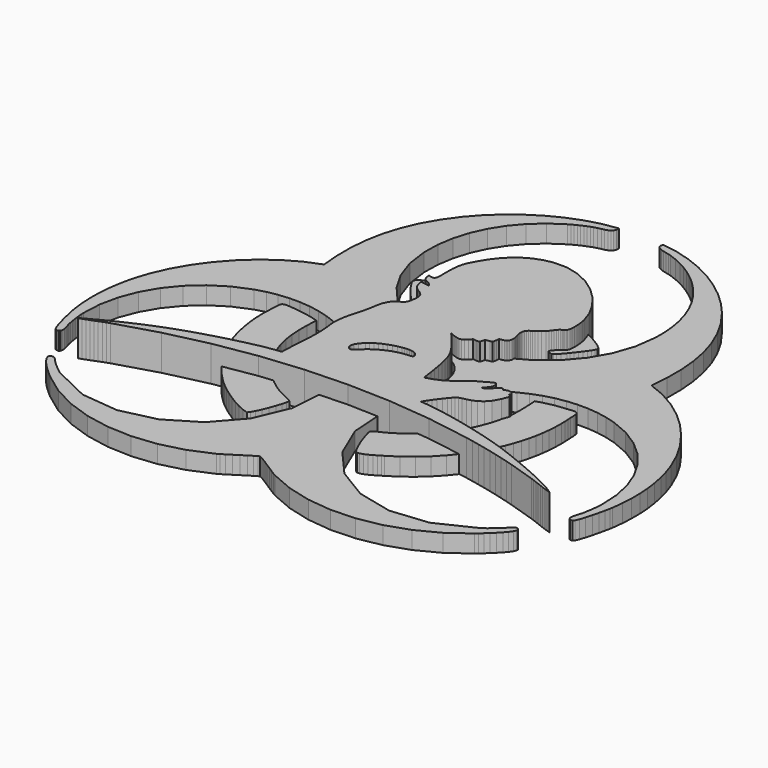
from build123d import *

# Parameters (mm, degrees)
F1_DEPTH = 6
F3_DEPTH = 3


with BuildPart() as f1:
    # F0 (on Top) → F1 (new body)
    with BuildSketch(Plane.XY):
        Polygon((-38.467299, -25.027738), (-39.957612, -25.8376), (-40, -25.916761), (-39.48545, -25.749315), (-38.964584, -25.564464), (-38.438525, -25.367122), (-37.908536, -25.1622), (-37.375459, -24.954472), (-36.840558, -24.749129), (-36.304954, -24.550944), (-35.769632, -24.36469), (-28.762294, -22.263682), (-21.690954, -20.619677), (-14.564454, -19.436185), (-7.392056, -18.716854), (-0.182745, -18.465193), (7.054076, -18.684852), (14.309705, -19.37948), (21.574738, -20.552727), (22.797531, -20.79751), (24.013166, -21.054785), (25.22108, -21.324832), (26.421135, -21.607933), (27.612768, -21.904508), (28.795699, -22.214838), (29.969507, -22.539204), (31.133911, -22.877745), (35.627029, -24.327215), (36.174141, -24.523715), (36.726728, -24.731584), (37.282122, -24.945629), (37.837375, -25.160516), (38.389541, -25.371052), (38.935951, -25.572044), (39.473801, -25.758298), (40, -25.924621), (38.925846, -25.207255), (37.365634, -24.370164), (35.47418, -23.466404), (33.406436, -22.54959), (31.317358, -21.673059), (29.36176, -20.890146), (27.694597, -20.254187), (26.470821, -19.818658), (25.540954, -19.515206), (24.607719, -19.224666), (23.66929, -18.945917), (22.724265, -18.677975), (21.771239, -18.419717), (20.808809, -18.170303), (19.835291, -17.928327), (18.849281, -17.693088), (17.911133, -17.478622), (16.887086, -17.256156), (15.80437, -17.034672), (14.689933, -16.823013), (13.570584, -16.630162), (12.473271, -16.465242), (11.425223, -16.337096), (10.453108, -16.254706), (10.621958, -15.920937), (10.905901, -15.467442), (11.272514, -14.934927), (11.689095, -14.363673), (12.12322, -13.794243), (12.542748, -13.267061), (12.914835, -12.82255), (13.207199, -12.501132), (13.594164, -12.258033), (14.123592, -12.101534), (14.75927, -11.960616), (15.465828, -11.764677), (16.207195, -11.442978), (16.94758, -10.924779), (17.651472, -10.139059), (18.282799, -9.015218), (18.722258, -7.838603), (18.700642, -7.625822), (18.66415, -7.559152), (18.614182, -7.555643), (18.552566, -7.532344), (18.334871, -7.400688), (18.319713, -7.294859), (18.315642, -7.250225), (18.347082, -7.241664), (18.438595, -7.24433), (18.391716, -7.018496), (18.277325, -6.828592), (18.107914, -6.6822), (17.895413, -6.587178), (17.652314, -6.551246), (17.390688, -6.581984), (17.122886, -6.687112), (16.86098, -6.874349), (16.69227, -6.628864), (16.51163, -6.518262), (16.325517, -6.516578), (16.140666, -6.597704), (15.963535, -6.735816), (15.801001, -6.904666), (15.659662, -7.078288), (15.545972, -7.230716), (15.430879, -7.388618), (15.308067, -7.547923), (15.17192, -7.700351), (15.016545, -7.837621), (14.836326, -7.95145), (14.625509, -8.03384), (14.3782, -8.076228), (14.088643, -8.070473), (14.281353, -7.914958), (14.499749, -7.733616), (14.720531, -7.525606), (14.920681, -7.289525), (15.077179, -7.024531), (15.167148, -6.729219), (15.167288, -6.402748), (15.054581, -6.043714), (14.90075, -5.927779), (14.724321, -5.905743), (14.520241, -5.961746), (14.283599, -6.079646), (13.692414, -6.438539), (12.911185, -6.855681), (12.179082, -7.254155), (11.532456, -7.715369), (10.91727, -8.217989), (10.279908, -8.740118), (9.566471, -9.260282), (8.723205, -9.756726), (7.696211, -10.208115), (6.431732, -10.592553), (6.318183, -9.777078), (6.186107, -8.85086), (6.034521, -7.857411), (5.863004, -6.840523), (5.670996, -5.843846), (5.457652, -4.910891), (5.222694, -4.08545), (4.965279, -3.411173), (4.787025, -3.051157), (4.585893, -2.689737), (4.367778, -2.331264), (4.138855, -1.980231), (3.67329, -1.319008), (3.238183, -0.741999), (2.784127, -0.159516), (2.257085, 0.49497), (1.727658, 1.114647), (1.266444, 1.592564), (1.815942, 1.374308), (2.292596, 1.188896), (2.714369, 1.059908), (3.09951, 1.011344), (3.465983, 1.066505), (3.832034, 1.249531), (4.215631, 1.583862), (4.635159, 2.093218), (4.963033, 2.05462), (5.218764, 2.01546), (5.340454, 2.007039), (5.469021, 2.011811), (5.612888, 2.034689), (5.780334, 2.079884), (6.010379, 2.896062), (6.724096, 3.04049), (7.058427, 3.110247), (7.13815, 3.213831), (7.188819, 3.414682), (7.23233, 3.751399), (7.290438, 4.26258), (7.740844, 4.334724), (8.101843, 4.415289), (8.253991, 4.475923), (8.390137, 4.559296), (8.512108, 4.672424), (8.622148, 4.822325), (8.743837, 5.215887), (8.747908, 5.62152), (8.673659, 6.035714), (8.560812, 6.455242), (8.448526, 6.876594), (8.376382, 7.296263), (8.383821, 7.710878), (8.510283, 8.117212), (8.666922, 8.366066), (8.851632, 8.553022), (9.067642, 8.70573), (9.31832, 8.852685), (9.606894, 9.021675), (9.936734, 9.240913), (10.310926, 9.53847), (10.73284, 9.942418), (10.997835, 10.239274), (11.201493, 10.502725), (11.39252, 10.768421), (11.62032, 11.072575), (11.798714, 11.27104), (11.968406, 11.41224), (12.128273, 11.512455), (12.277051, 11.588669), (12.413619, 11.657304), (12.536853, 11.735202), (12.645349, 11.839066), (12.737985, 11.985319), (12.8462, 12.313193), (12.908519, 12.729633), (12.931678, 13.205866), (12.922695, 13.713538), (12.888307, 14.224017), (12.835392, 14.708952), (12.770969, 15.139848), (12.701913, 15.487935), (12.024689, 17.466832), (10.940148, 19.435764), (9.50682, 21.303077), (7.783232, 22.977259), (5.828196, 24.366515), (3.700099, 25.379473), (1.45761, 25.924621), (-0.840459, 25.910164), (-2.390425, 25.572605), (-3.79091, 25.030686), (-5.051458, 24.302512), (-6.182177, 23.406892), (-7.19303, 22.361792), (-8.093703, 21.185879), (-8.89416, 19.897539), (-9.604228, 18.51516), (-9.864169, 17.788671), (-10.022913, 16.991442), (-10.10404, 16.163895), (-10.130708, 15.346314), (-10.126076, 14.578981), (-10.113584, 13.902038), (-10.116532, 13.355907), (-10.158218, 12.981013), (-10.235555, 12.772021), (-10.340682, 12.636155), (-10.470232, 12.561766), (-10.620414, 12.537203), (-10.96836, 12.591241), (-11.355746, 12.705492), (-11.289357, 12.101815), (-11.155456, 11.711762), (-10.964991, 11.473295), (-10.729051, 11.324657), (-10.458302, 11.20395), (-10.163832, 11.049416), (-9.85645, 10.799019), (-9.547243, 10.391), (-11.060996, 10.651082), (-10.865057, 9.733567), (-10.535217, 9.109538), (-10.122427, 8.691414), (-9.678196, 8.39147), (-9.253334, 8.121985), (-8.899213, 7.795373), (-8.666781, 7.324194), (-8.60727, 6.620583), (-8.719836, 5.642292), (-8.922091, 5.037353), (-9.198595, 4.688845), (-9.533347, 4.479853), (-9.910768, 4.293319), (-10.315137, 4.012323), (-10.730735, 3.52009), (-11.141982, 2.699421), (-11.247531, 2.37295), (-11.343395, 1.97195), (-11.432802, 1.517473), (-11.518982, 1.030012), (-11.693446, 0.040072), (-11.891771, -0.831406), (-12.13136, -1.655444), (-12.366178, -2.501097), (-12.57517, -3.368645), (-12.737283, -4.25865), (-12.803391, -4.837765), (-12.827813, -5.358911), (-12.819532, -5.839354), (-12.78725, -6.296498), (-12.685491, -7.209522), (-12.592715, -8.236516), (-12.561134, -9.243018), (-12.572784, -10.271837), (-12.616014, -11.317078), (-12.679175, -12.373126), (-12.750617, -13.434086), (-12.81855, -14.493924), (-12.871464, -15.546885), (-12.897711, -16.587213), (-14.44529, -16.772063), (-16.243408, -17.091657), (-18.206585, -17.515957), (-20.249064, -18.015208), (-22.284806, -18.559233), (-24.228333, -19.118135), (-25.993887, -19.661879), (-27.49557, -20.160709), (-29.211578, -20.78165), (-30.856425, -21.424626), (-32.443164, -22.091183), (-33.984568, -22.783285), (-35.49383, -23.502195), (-36.983722, -24.249878), align=None)
        Polygon((-1.922193, -5.808195), (-1.218301, -5.660258), (-0.837231, -5.603554), (-0.440582, -5.572395), (-0.04309, -5.572535), (0.340787, -5.60973), (0.696312, -5.689453), (1.008888, -5.817458), (1.264058, -5.999502), (1.447084, -6.241057), (1.537614, -6.45861), (1.556562, -6.618477), (1.514174, -6.730061), (1.420837, -6.802766), (1.121876, -6.869155), (0.74235, -6.893297), (0.222607, -6.944527), (-0.287452, -7.022706), (-0.787685, -7.127413), (-1.277953, -7.258226), (-1.758536, -7.414865), (-2.229154, -7.596908), (-2.689667, -7.803795), (-3.140354, -8.035384), (-3.810419, -8.431613), (-4.341391, -8.79991), (-4.756849, -9.137329), (-5.080512, -9.44036), (-5.336103, -9.706057), (-5.5472, -9.931049), (-5.737385, -10.11211), (-5.930516, -10.246152), (-6.216003, -10.325734), (-6.4977, -10.274363), (-6.735044, -10.100601), (-6.887472, -9.81357), (-6.914701, -9.422254), (-6.776169, -8.935355), (-6.431451, -8.361855), (-5.839986, -7.710597), (-5.416107, -7.3503), (-4.940296, -7.018496), (-4.416763, -6.715745), (-3.849158, -6.44275), (-3.241551, -6.200072), (-2.598013, -5.988273), align=None, mode=Mode.SUBTRACT)
    extrude(amount=F1_DEPTH)

    # F2 (on Top) → F3 (join)
    with BuildSketch(Plane.XY):
        Polygon((4.57095, 4.0118), (0.89715, 3.4461), (0.89715, 0.5478), (1.18585, 0.4119), (1.56705, 0.2828), (2.02085, 0.1316), (2.52745, -0.0701), (3.06705, -0.3509), (3.61975, -0.7396), (4.16565, -1.2646), (4.68485, -1.9546), (5.16585, -2.8524), (5.44385, -3.6749), (5.56225, -4.4219), (5.56485, -5.0932), (5.49515, -5.6884), (5.39675, -6.2074), (5.31335, -6.6499), (5.28845, -7.0156), (7.74945, -8.4431), (8.82645, -7.1748), (9.79215, -6.0445), (10.70805, -5.0314), (11.63525, -4.1146), (12.63515, -3.2734), (13.76915, -2.4869), (15.09855, -1.7343), (16.68475, -0.9948), (18.35405, -0.3725), (20.06665, 0.0921), (21.81025, 0.3991), (23.57255, 0.5483), (25.34135, 0.5396), (27.10435, 0.373), (28.84925, 0.0484), (30.56375, -0.4344), (33.54455, -1.7005), (36.21565, -3.3944), (38.54595, -5.4672), (40.50455, -7.8699), (42.06025, -10.5534), (43.18205, -13.4689), (43.83885, -16.5673), (43.99955, -19.7996), (43.97845, -20.2797), (43.94515, -20.7384), (43.90045, -21.1822), (43.84555, -21.6178), (43.78135, -22.0516), (43.70885, -22.4903), (43.62895, -22.9404), (43.54285, -23.4084), (43.34645, -24.055), (43.11795, -24.9383), (43.09105, -25.3494), (43.17535, -25.6764), (43.41075, -25.8716), (43.83685, -25.8873), (44.07565, -25.6224), (44.35065, -24.9773), (44.64275, -24.0682), (44.93245, -23.0113), (45.20055, -21.9231), (45.42775, -20.9196), (45.59485, -20.1173), (45.68255, -19.6324), (45.89175, -17.8116), (45.99135, -16.0041), (45.98005, -14.2097), (45.85605, -12.4278), (45.61805, -10.6581), (45.26445, -8.9001), (44.79365, -7.1534), (44.20425, -5.4176), (43.02875, -2.7556), (41.53905, -0.1743), (39.76705, 2.279), (37.74445, 4.557), (35.50315, 6.6124), (33.07475, 8.3978), (30.49125, 9.866), (27.78435, 10.9696), (28.03365, 14.0063), (28.03915, 16.9676), (27.78445, 19.8525), (27.25335, 22.6603), (26.42975, 25.3898), (25.29735, 28.0404), (23.83995, 30.6109), (22.04135, 33.1006), (20.28235, 35.0837), (18.32355, 36.921), (16.19035, 38.5871), (13.90795, 40.0567), (11.50145, 41.3045), (8.99625, 42.3051), (6.41755, 43.0331), (3.79045, 43.4633), (3.67925, 43.0148), (3.79545, 42.6634), (4.08925, 42.3923), (4.51105, 42.1847), (5.01095, 42.0238), (5.53935, 41.8928), (6.04625, 41.7749), (6.48215, 41.6532), (7.67545, 41.2023), (8.83645, 40.6662), (9.96055, 40.0504), (11.04285, 39.3604), (12.07865, 38.602), (13.06325, 37.7805), (13.99185, 36.9016), (14.85965, 35.9708), (16.04965, 34.4687), (17.06855, 32.8825), (17.91715, 31.2207), (18.59625, 29.4919), (19.10675, 27.7045), (19.44925, 25.8669), (19.62485, 23.9876), (19.63415, 22.0752), (19.12915, 18.3669), (17.95485, 14.9433), (16.18345, 11.8592), (13.88715, 9.1692), (11.13815, 6.9281), (8.00865, 5.1907), align=None)
        Polygon((-5.55135, -9.3157), (-6.87295, -10.0591), (-4.87065, -17.2256), (-5.31455, -23.8471), (-7.78275, -29.6204), (-11.85325, -34.242), (-17.10425, -37.4087), (-23.11385, -38.817), (-29.46005, -38.1636), (-35.72105, -35.1453), (-36.30935, -34.7068), (-36.86165, -34.2566), (-37.39915, -33.7899), (-37.94315, -33.302), (-38.20035, -33.0396), (-38.45855, -32.7439), (-38.71045, -32.4623), (-38.94925, -32.2425), (-39.08205, -32.1691), (-39.23525, -32.1275), (-39.39565, -32.1191), (-39.54995, -32.1451), (-39.68495, -32.2068), (-39.78725, -32.3053), (-39.84385, -32.4421), (-39.84125, -32.6182), (-39.65945, -33.0723), (-39.29625, -33.6121), (-38.80115, -34.2044), (-38.22345, -34.8162), (-37.61265, -35.4143), (-37.01825, -35.9657), (-36.48985, -36.4373), (-36.07665, -36.7959), (-32.68675, -39.28), (-29.00605, -41.1963), (-25.10905, -42.5378), (-21.07005, -43.2975), (-16.96365, -43.4684), (-12.86405, -43.0433), (-8.84595, -42.0154), (-4.98355, -40.3776), (-4.56735, -40.1371), (-3.92665, -39.7403), (-3.14455, -39.2452), (-2.30385, -38.7099), (-1.48755, -38.1922), (-0.77865, -37.7502), (-0.26005, -37.4418), (-0.01475, -37.3251), (0.25515, -37.4363), (0.77905, -37.7368), (1.47935, -38.1699), (2.27815, -38.6787), (3.09805, -39.2066), (3.86135, -39.6966), (4.49035, -40.0921), (4.90735, -40.3362), (8.75605, -41.9881), (12.77005, -43.0291), (16.87235, -43.4663), (20.98615, -43.3071), (25.03425, -42.5588), (28.93995, -41.2288), (32.62605, -39.3244), (36.01585, -36.8528), (36.42445, -36.4982), (36.95365, -36.0253), (37.55275, -35.4695), (38.17155, -34.8662), (38.75935, -34.2507), (39.26575, -33.6586), (39.64025, -33.1251), (39.83245, -32.6857), (39.84695, -32.4917), (39.80345, -32.3398), (39.71445, -32.2278), (39.59225, -32.1538), (39.44935, -32.1158), (39.29815, -32.1117), (39.15095, -32.1395), (39.02025, -32.1973), (38.91045, -32.2791), (38.78855, -32.3934), (38.65835, -32.5309), (38.52355, -32.6825), (38.25485, -32.9909), (38.01185, -33.245), (37.46255, -33.7432), (36.91695, -34.2169), (36.35545, -34.6722), (35.75835, -35.1153), (29.45085, -38.1511), (23.07685, -38.8021), (17.05495, -37.3795), (11.80375, -34.1947), (7.74195, -29.5589), (5.28805, -23.7836), (4.86085, -17.1798), (6.87885, -10.0591), (4.38175, -8.6184), (4.15295, -8.758), (3.91825, -8.9451), (3.66875, -9.1663), (3.39535, -9.4079), (3.08915, -9.6562), (2.74105, -9.8976), (2.34195, -10.1185), (1.88305, -10.3052), (1.43445, -10.4389), (0.98875, -10.5374), (0.54465, -10.6003), (0.10105, -10.6271), (-0.34295, -10.6173), (-0.78875, -10.5706), (-1.23725, -10.4864), (-1.68965, -10.3643), (-2.80765, -9.9162), (-3.46455, -9.4791), (-3.82375, -9.106), (-4.04865, -8.85), (-4.30265, -8.7643), (-4.74905, -8.9018), align=None)
        Polygon((-28.02995, 14.0256), (-27.77845, 10.9696), (-30.48205, 9.867), (-33.06535, 8.3989), (-35.49535, 6.613), (-37.73935, 4.5568), (-39.76445, 2.278), (-41.53795, -0.1757), (-43.02695, -2.7567), (-44.19865, -5.4173), (-44.78615, -7.1529), (-45.25735, -8.8996), (-45.61285, -10.6578), (-45.85325, -12.4278), (-45.97915, -14.2098), (-45.99135, -16.0044), (-45.89025, -17.8117), (-45.67655, -19.6321), (-45.58835, -20.1177), (-45.42155, -20.9203), (-45.19515, -21.9237), (-44.92805, -23.0117), (-44.63915, -24.0682), (-44.34745, -24.9771), (-44.07175, -25.6222), (-43.83115, -25.8873), (-43.40655, -25.8732), (-43.17145, -25.6832), (-43.08635, -25.364), (-43.11195, -24.9621), (-43.33715, -24.0973), (-43.53175, -23.462), (-43.61965, -22.9862), (-43.70055, -22.5291), (-43.77365, -22.084), (-43.83805, -21.6441), (-43.89305, -21.2024), (-43.93775, -20.7521), (-43.97145, -20.2866), (-43.99315, -19.7988), (-43.83535, -16.5674), (-43.17945, -13.4693), (-42.05705, -10.5537), (-40.49985, -7.8698), (-38.53975, -5.4668), (-36.20825, -3.3937), (-33.53705, -1.6999), (-30.55805, -0.4344), (-28.84835, 0.0467), (-27.10405, 0.3709), (-25.33905, 0.538), (-23.56675, 0.5475), (-21.80095, 0.3993), (-20.05525, 0.0931), (-18.34335, -0.3714), (-16.67875, -0.9944), (-15.09075, -1.7382), (-13.76135, -2.4919), (-12.62835, -3.2777), (-11.62965, -4.1174), (-10.70315, -5.033), (-9.78695, -6.0466), (-8.81865, -7.1802), (-7.73635, -8.4557), (-5.27695, -7.0255), (-5.30435, -6.6605), (-5.38915, -6.2143), (-5.48795, -5.6892), (-5.55755, -5.0874), (-5.55465, -4.4108), (-5.43615, -3.6618), (-5.15855, -2.8425), (-4.67885, -1.955), (-4.52185, -1.7259), (-4.35185, -1.5038), (-4.16995, -1.2897), (-3.97685, -1.0847), (-3.77375, -0.8898), (-3.56135, -0.706), (-3.34075, -0.5343), (-3.11285, -0.3758), (-2.80515, -0.1966), (-2.48595, -0.0468), (-2.16545, 0.0792), (-1.85345, 0.187), (-1.56005, 0.2822), (-1.29525, 0.3704), (-1.06905, 0.457), (-0.89145, 0.5478), (-0.89145, 3.4461), (-4.55735, 4.0098), (-7.98885, 5.1842), (-11.11385, 6.915), (-13.86065, 9.148), (-16.15705, 11.8288), (-17.93145, 14.9033), (-19.11165, 18.3172), (-19.62595, 22.0162), (-19.55995, 24.8146), (-19.13615, 27.5113), (-18.36725, 30.0811), (-17.26555, 32.4991), (-15.84385, 34.74), (-14.11445, 36.7788), (-12.08995, 38.5904), (-9.78285, 40.1498), (-9.40125, 40.3658), (-9.01125, 40.5738), (-8.61415, 40.7734), (-8.21125, 40.9639), (-7.80395, 41.1447), (-7.39345, 41.315), (-6.98125, 41.4744), (-6.56855, 41.6222), (-6.01235, 41.7834), (-5.47895, 41.9019), (-4.98565, 42.0089), (-4.54985, 42.1358), (-4.18885, 42.3139), (-3.92005, 42.5745), (-3.76055, 42.9489), (-3.72795, 43.4684), (-6.34015, 43.0537), (-8.91885, 42.3322), (-11.43405, 41.3319), (-13.85575, 40.081), (-16.15395, 38.6077), (-18.29875, 36.94), (-20.26015, 35.1062), (-22.00805, 33.1344), (-23.81475, 30.6301), (-25.27925, 28.0552), (-26.41745, 25.4069), (-27.24555, 22.6825), (-27.77965, 19.8793), (-28.03575, 16.9946), align=None)
        Polygon((-10.17275, -28.2672), (-9.27815, -28.5593), (-8.96845, -28.1898), (-8.59885, -27.5277), (-8.20065, -26.6641), (-7.80495, -25.6903), (-7.44315, -24.6974), (-7.14635, -23.7766), (-6.94585, -23.019), (-6.87295, -22.5159), (-7.29075, -22.2495), (-7.74735, -22.0136), (-8.25375, -21.7769), (-8.82075, -21.5078), (-9.45935, -21.1749), (-10.18045, -20.7467), (-10.99515, -20.1918), (-11.91415, -19.4787), (-12.46505, -19.0073), (-12.99295, -18.5191), (-13.49865, -18.0135), (-13.98285, -17.4899), (-14.44615, -16.9477), (-14.88925, -16.3863), (-15.31275, -15.805), (-15.71745, -15.2032), (-16.67015, -13.5871), (-17.40425, -12.0306), (-17.94305, -10.5031), (-18.31015, -8.9739), (-18.52875, -7.4124), (-18.62235, -5.7879), (-18.61435, -4.0698), (-18.52825, -2.2274), (-19.25465, -2.0163), (-19.92955, -1.8425), (-20.57115, -1.7004), (-21.19765, -1.584), (-21.82715, -1.4876), (-22.47795, -1.4054), (-23.16805, -1.3314), (-23.91575, -1.2599), (-24.42705, -1.2374), (-24.78105, -1.2822), (-25.00745, -1.3963), (-25.13565, -1.5821), (-25.19515, -1.8417), (-25.21535, -2.1774), (-25.22575, -2.5913), (-25.25585, -3.0858), (-25.34315, -4.7616), (-25.30165, -6.4722), (-25.13655, -8.1986), (-24.85305, -9.9215), (-24.45655, -11.6215), (-23.95225, -13.2795), (-23.34545, -14.8761), (-22.64145, -16.3923), (-22.06745, -17.4638), (-21.47685, -18.463), (-20.86115, -19.4034), (-20.21255, -20.2987), (-19.52255, -21.1624), (-18.78315, -22.0083), (-17.98605, -22.85), (-17.12325, -23.701), (-16.40185, -24.3421), (-15.50775, -25.0539), (-14.49025, -25.7963), (-13.39875, -26.529), (-12.28235, -27.2118), (-11.19065, -27.8046), align=None)
        Polygon((19.17085, -2.038), (18.53385, -2.2274), (18.61385, -3.6391), (18.66045, -4.919), (18.65735, -6.1081), (18.58845, -7.2475), (18.43775, -8.378), (18.18905, -9.5407), (17.82625, -10.7766), (17.33315, -12.1268), (16.68765, -13.5604), (15.92105, -14.9219), (15.04185, -16.2066), (14.05835, -17.4097), (12.97905, -18.5264), (11.81235, -19.5521), (10.56675, -20.4819), (9.25065, -21.3112), (8.39865, -21.7683), (7.75955, -22.07), (7.31365, -22.2813), (7.04155, -22.4672), (6.92355, -22.6924), (6.94025, -23.022), (7.07195, -23.5209), (7.29925, -24.2539), (7.44475, -24.7013), (7.62475, -25.2106), (7.83235, -25.7586), (8.06055, -26.3222), (8.30255, -26.8781), (8.55135, -27.403), (8.79995, -27.8739), (9.04155, -28.2674), (9.32495, -28.4442), (9.75365, -28.4306), (10.28085, -28.2725), (10.85995, -28.0157), (11.44415, -27.7059), (11.98675, -27.389), (12.44085, -27.1108), (12.75995, -26.917), (14.49615, -25.8121), (16.14465, -24.5569), (17.69245, -23.1647), (19.12615, -21.6488), (20.43275, -20.0224), (21.59905, -18.2988), (22.61185, -16.4913), (23.45815, -14.6133), (23.90485, -13.4196), (24.28785, -12.243), (24.60835, -11.074), (24.86775, -9.9028), (25.06725, -8.7197), (25.20825, -7.5151), (25.29195, -6.2792), (25.31965, -5.0024), (25.30345, -4.3051), (25.26665, -3.6289), (25.22665, -2.9591), (25.20085, -2.2813), (25.16105, -1.8299), (25.06285, -1.5189), (24.90845, -1.3248), (24.69975, -1.2244), (24.43885, -1.1944), (24.12785, -1.2114), (23.76885, -1.2521), (23.36375, -1.2932), (22.69945, -1.3526), (22.07925, -1.424), (21.48975, -1.5097), (20.91765, -1.6118), (20.34935, -1.7324), (19.77155, -1.8738), align=None)
        Polygon((-0.36095, 20.3092), (-1.62525, 20.2466), (-3.37715, 20.0558), (-5.08085, 19.7683), (-6.73945, 19.38), (-8.35565, 18.8866), (-9.93235, 18.2837), (-11.47265, 17.5673), (-12.97925, 16.733), (-14.45515, 15.7766), (-14.92055, 15.472), (-15.28295, 15.2391), (-15.52675, 15.0289), (-15.63665, 14.7925), (-15.59685, 14.481), (-15.39205, 14.0454), (-15.00665, 13.4368), (-14.42505, 12.6062), (-14.22615, 12.3458), (-13.90885, 11.9541), (-13.51165, 11.4821), (-13.07275, 10.9808), (-12.63035, 10.5008), (-12.22285, 10.0933), (-11.88845, 9.809), (-11.66545, 9.6988), (-11.51045, 9.7808), (-11.14365, 10.0008), (-10.62965, 10.3163), (-10.03305, 10.6846), (-9.41845, 11.0635), (-8.85025, 11.4103), (-8.39305, 11.6825), (-8.11145, 11.8378), (-6.99575, 12.327), (-5.82715, 12.7509), (-4.61855, 13.1042), (-3.38255, 13.3813), (-2.13225, 13.5771), (-0.88045, 13.686), (0.36005, 13.7029), (1.57645, 13.6223), (2.75825, 13.4676), (3.89375, 13.2635), (4.99095, 13.0044), (6.05755, 12.6846), (7.10125, 12.2986), (8.12985, 11.8408), (9.15115, 11.3054), (10.17285, 10.687), (10.74775, 10.2975), (11.17335, 10.0013), (11.49785, 9.8169), (11.76955, 9.7626), (12.03665, 9.8569), (12.34745, 10.1182), (12.75005, 10.565), (13.29275, 11.2156), (13.54345, 11.5211), (13.86655, 11.9227), (14.23305, 12.3896), (14.61405, 12.8905), (14.98065, 13.3947), (15.30385, 13.8709), (15.55465, 14.2883), (15.70415, 14.6158), (15.51865, 15.0398), (14.83925, 15.604), (13.81085, 16.253), (12.57865, 16.9314), (11.28765, 17.5838), (10.08285, 18.1549), (9.10935, 18.5892), (8.51225, 18.8314), (7.30895, 19.2235), (6.06835, 19.5611), (4.79985, 19.8406), (3.51325, 20.0587), (2.21785, 20.2118), (0.92325, 20.2965), align=None)
    extrude(amount=F3_DEPTH)


solid = f1.part
